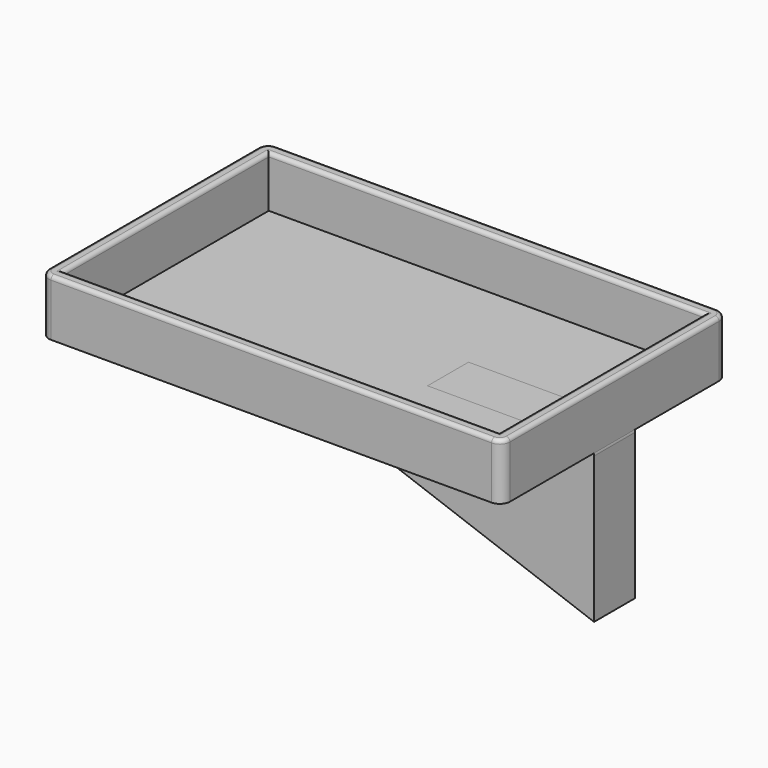
from build123d import *

# Parameters (mm, degrees)
F0_W     = 170
F0_H     = 100
F1_DEPTH = 20
F2_DEPTH = 2
F3_R     = 1.5
F5_DEPTH = 10


with BuildPart() as f1:
    # F0 (on Top) → F1 (new body)
    with BuildSketch(Plane.XY):
        with BuildLine():
            Line((-90.000004, 51.000004), (-90.000004, -51.000004))
            ThreePointArc((-90.000004, -51.000004), (-88.828431, -53.828431), (-86.000004, -55.000004))
            Line((-86.000004, -55.000004), (86.000004, -55.000004))
            ThreePointArc((86.000004, -55.000004), (88.828431, -53.828431), (90.000004, -51.000004))
            Line((90.000004, -51.000004), (90.000004, 51.000004))
            ThreePointArc((90.000004, 51.000004), (88.828431, 53.828431), (86.000004, 55.000004))
            Line((86.000004, 55.000004), (-86.000004, 55.000004))
            ThreePointArc((-86.000004, 55.000004), (-88.828431, 53.828431), (-90.000004, 51.000004))
        make_face()
        Rectangle(F0_W, F0_H, mode=Mode.SUBTRACT)
    extrude(amount=F1_DEPTH)

    # F0 (on Top) → F2 (join)
    with BuildSketch(Plane.XY):
        with BuildLine():
            Line((-90.000004, 51.000004), (-90.000004, -51.000004))
            ThreePointArc((-90.000004, -51.000004), (-88.828431, -53.828431), (-86.000004, -55.000004))
            Line((-86.000004, -55.000004), (86.000004, -55.000004))
            ThreePointArc((86.000004, -55.000004), (88.828431, -53.828431), (90.000004, -51.000004))
            Line((90.000004, -51.000004), (90.000004, 51.000004))
            ThreePointArc((90.000004, 51.000004), (88.828431, 53.828431), (86.000004, 55.000004))
            Line((86.000004, 55.000004), (-86.000004, 55.000004))
            ThreePointArc((-86.000004, 55.000004), (-88.828431, 53.828431), (-90.000004, 51.000004))
        make_face()
        Rectangle(F0_W, F0_H, mode=Mode.SUBTRACT)
        Rectangle(F0_W, F0_H)
    extrude(amount=-F2_DEPTH)

    # F3
    f3_edges = [f1.edges().sort_by_distance(p)[0] for p in [
        (0, -55.000004, 20),
        (0, -50, 20),
        (-85, 0, 20),
        (-90.000004, 0, 20),
        (0, 50, 20),
        (0, 55.000004, 20),
        (90.000004, 0, 20),
        (85, 0, 20),
    ]]
    fillet(f3_edges, radius=F3_R)


with BuildPart() as f5:
    # F4 (on Front) → F5 (new body, symmetric)
    with BuildSketch(Plane.XZ):
        with BuildLine():
            Line((87, 0), (25, 0))
            ThreePointArc((25, 0), (7.32233, -7.32233), (0, -25))
            Line((0, -25), (0, -27.242679))
            Line((0, -27.242679), (90, -60))
            Line((90, -60), (90, -3))
            ThreePointArc((90, -3), (89.12132, -0.87868), (87, 0))
        make_face()
    extrude(amount=F5_DEPTH, both=True)


solid = Compound([f1.part, f5.part])
